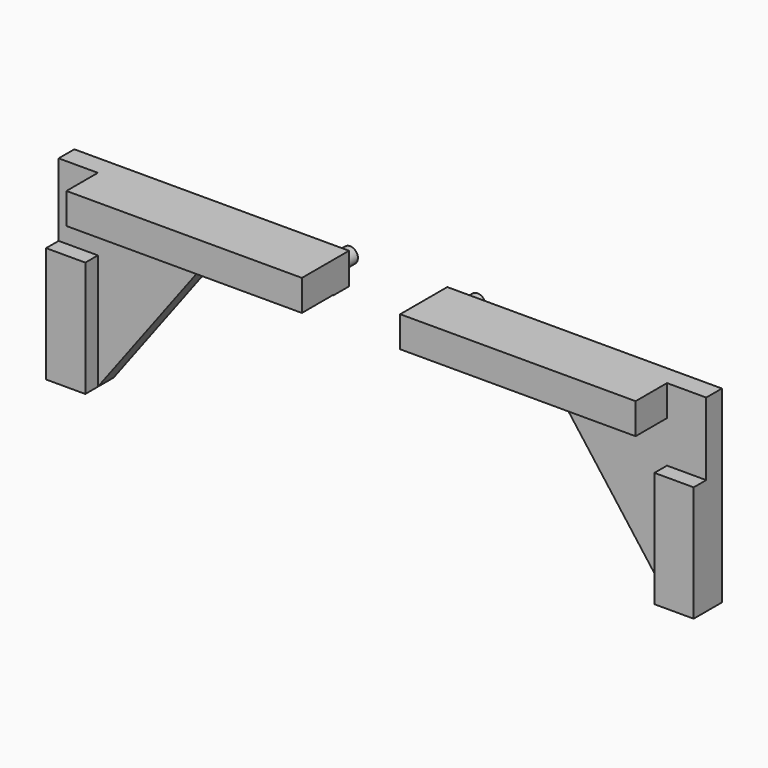
from build123d import *

# Parameters (mm, degrees)
F1_DEPTH  = 6.35
F2_W      = 12.7
F2_H      = 37.4380293493
F3_DEPTH  = 5.08
F4_R      = 2.54
F5_DEPTH  = 6.35
F9_ANGLE  = 180
F13_W     = 76.2
F13_H     = 9.9927893933
F14_DEPTH = 12.7


with BuildPart() as f1:
    # F0 (on Front) → F1 (new body)
    with BuildSketch(Plane.XZ):
        Polygon((-104.8047976519, -0.0827553873), (-92.1047976519, -0.0827553873), (-92.1047976519, 50.7172446127), (-92.1047976519, 60.8772446127), (-104.8047976519, 60.8772446127), align=None)
        Polygon((-92.1047976519, 50.7172446127), (-92.1047976519, -0.0827553873), (-54.0047976519, 50.7172446127), align=None)
        Polygon((-92.1047976519, 60.8772446127), (-92.1047976519, 50.7172446127), (-54.0047976519, 50.7172446127), (-15.9047976519, 50.7172446127), (-15.9047976519, 60.8772446127), align=None)
    extrude(amount=F1_DEPTH)

    # F2 (on face) → F3 (join)
    with BuildSketch(Plane.XZ.offset(6.35)):
        with Locations((-98.4547976519, 18.6362592874)):
            Rectangle(F2_W, F2_H)
    extrude(amount=F3_DEPTH)

    # F4 (on face) → F5 (join)
    with BuildSketch(Plane.XZ):
        with Locations((-20.6294525415, 55.5273666978)):
            Circle(F4_R)
    extrude(amount=-F5_DEPTH)


with BuildPart() as f6_1:
    # F6: copy of F1
    add(f1.part.moved(Location((163.83, -4.572, -13.716))))


with BuildPart() as f8_1:
    # F8: copy of F1
    add(f1.part.moved(Location((137.414, 0, 0))))


with BuildPart() as f9_1:
    # F9: copy of F8_1
    add(f8_1.part.rotate(Axis((121.5092023481, -3.175, 60.8772446127), (0, -1, 0)), F9_ANGLE))


with BuildPart() as f11_1:
    # F11: instance of F1
    add(f1.part.mirror(Plane.YZ))


with BuildPart() as f1_1:
    add(f1.part)

    # F13 (on face) → F14 (join)
    with BuildSketch(Plane.XZ.offset(6.35)):
        with Locations((-54.0047976519, 55.8808499161)):
            Rectangle(F13_W, F13_H)
    extrude(amount=F14_DEPTH)


with BuildPart() as f16_1:
    # F16: instance of F1
    add(f1_1.part.mirror(Plane.YZ))


solid = Compound([f1_1.part, f16_1.part])
